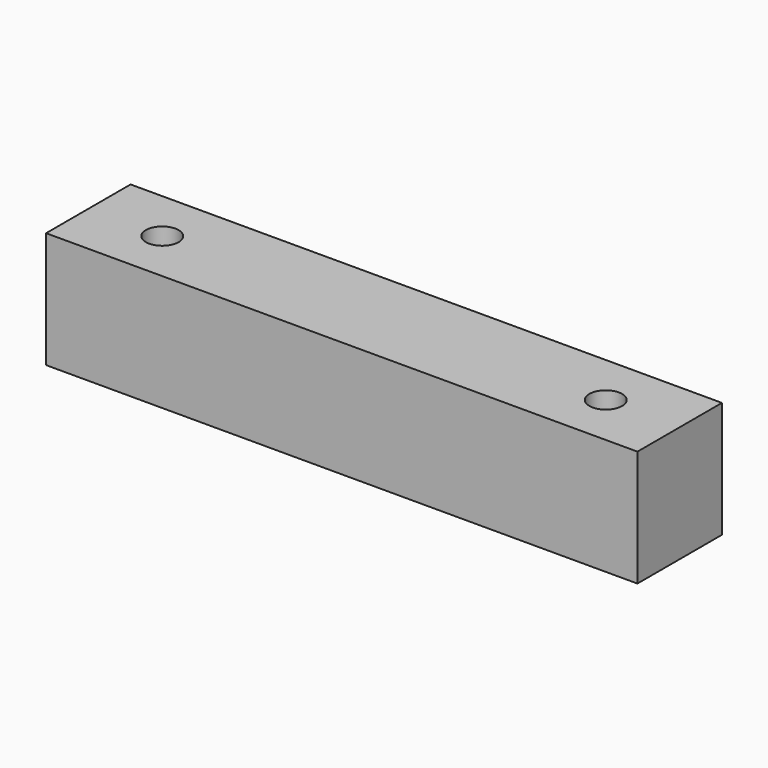
from build123d import *

# Parameters (mm, degrees)
F0_W     = 56
F0_H     = 10
F1_DEPTH = 11
F2_D     = 3.1


with BuildPart() as f1:
    # F0 (on Top) → F1 (new body)
    with BuildSketch(Plane.XY):
        Rectangle(F0_W, F0_H)
    extrude(amount=F1_DEPTH)

    # F2 (through all)
    with Locations(Plane(origin=(0, 0, 0), x_dir=(1, 0, 0), z_dir=(0, 0, -1))):
        with Locations((21, 0), (-21, 0)):
            Hole(F2_D / 2)


solid = f1.part
